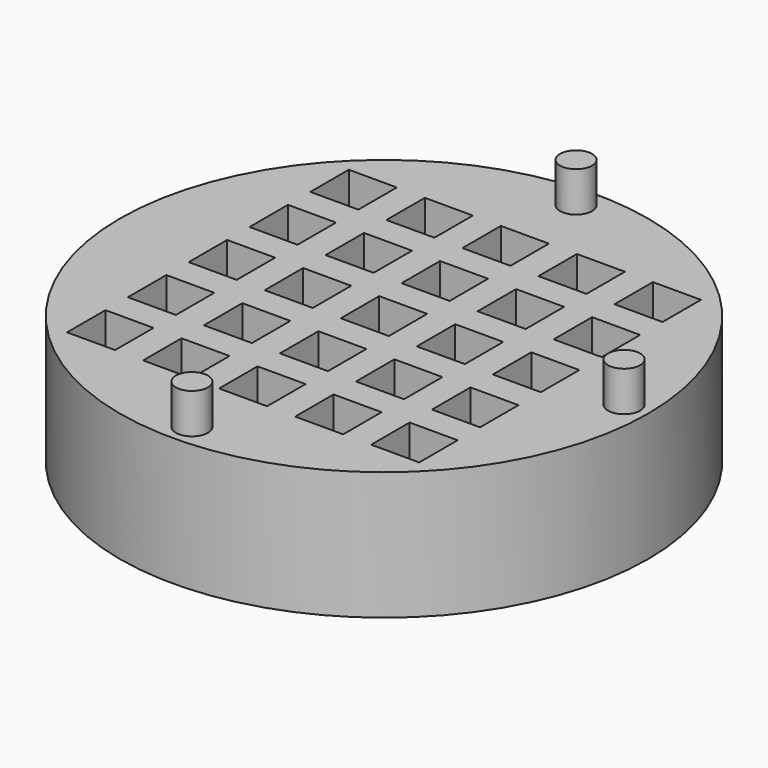
from build123d import *

# Parameters (mm, degrees)
F0_R     = 16.5
F1_DEPTH = 8
F2_R     = 1.05
F3_DEPTH = 2.5
F4_R     = 1
F5_DEPTH = 2.5
F6_W     = 3
F6_H     = 3
F7_DEPTH = 8.001


with BuildPart() as f1:
    # F0 (on Top) → F1 (new body)
    with BuildSketch(Plane.XY):
        Circle(F0_R)
    extrude(amount=F1_DEPTH)

    # F2 (on face) → F3 (cut)
    with BuildSketch(Plane(origin=(0, 0, 0), x_dir=(1, 0, 0), z_dir=(0, 0, -1))):
        with Locations((0, 15.05)):
            Circle(F2_R)
        with Locations((15, 0.05)):
            Circle(F2_R)
        with Locations((0, -14.95)):
            Circle(F2_R)
    extrude(amount=-F3_DEPTH, mode=Mode.SUBTRACT)

    # F4 (on face) → F5 (join)
    with BuildSketch(Plane.XY.offset(8)):
        with Locations((0, 15)):
            Circle(F4_R)
        with Locations((15, 0)):
            Circle(F4_R)
        with Locations((0, -15)):
            Circle(F4_R)
    extrude(amount=F5_DEPTH)

    # F6 (on face) → F7 (cut, through all)
    with BuildSketch(Plane.XY.offset(8)):
        with Locations((-9.5, 9.5)):
            Rectangle(F6_W, F6_H)
        with Locations((-9.5, 4.75)):
            Rectangle(F6_W, F6_H)
        with Locations((-9.5, 0)):
            Rectangle(F6_W, F6_H)
        with Locations((-9.5, -4.75)):
            Rectangle(F6_W, F6_H)
        with Locations((-9.5, -9.5)):
            Rectangle(F6_W, F6_H)
        with Locations((-4.75, 9.5)):
            Rectangle(F6_W, F6_H)
        with Locations((-4.75, 4.75)):
            Rectangle(F6_W, F6_H)
        with Locations((-4.75, 0)):
            Rectangle(F6_W, F6_H)
        with Locations((-4.75, -4.75)):
            Rectangle(F6_W, F6_H)
        with Locations((-4.75, -9.5)):
            Rectangle(F6_W, F6_H)
        with Locations((0, 9.5)):
            Rectangle(F6_W, F6_H)
        with Locations((0, 4.75)):
            Rectangle(F6_W, F6_H)
        Rectangle(F6_W, F6_H)
        with Locations((0, -4.75)):
            Rectangle(F6_W, F6_H)
        with Locations((0, -9.5)):
            Rectangle(F6_W, F6_H)
        with Locations((4.75, 9.5)):
            Rectangle(F6_W, F6_H)
        with Locations((4.75, 4.75)):
            Rectangle(F6_W, F6_H)
        with Locations((4.75, 0)):
            Rectangle(F6_W, F6_H)
        with Locations((4.75, -4.75)):
            Rectangle(F6_W, F6_H)
        with Locations((4.75, -9.5)):
            Rectangle(F6_W, F6_H)
        with Locations((9.5, 9.5)):
            Rectangle(F6_W, F6_H)
        with Locations((9.5, 4.75)):
            Rectangle(F6_W, F6_H)
        with Locations((9.5, 0)):
            Rectangle(F6_W, F6_H)
        with Locations((9.5, -4.75)):
            Rectangle(F6_W, F6_H)
        with Locations((9.5, -9.5)):
            Rectangle(F6_W, F6_H)
    extrude(amount=-F7_DEPTH, mode=Mode.SUBTRACT)


solid = f1.part
